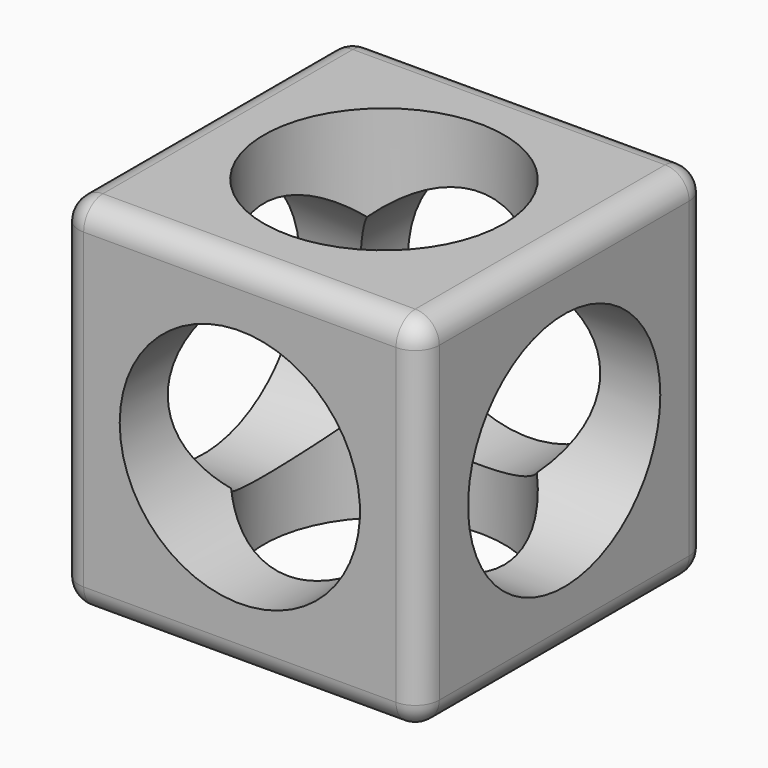
from build123d import *

# Parameters (mm, degrees)
F0_W     = 15
F0_H     = 15
F0_R     = 5
F1_DEPTH = 15
F3_DEPTH = 15.001
F5_DEPTH = 15.001
F6_R     = 1


with BuildPart() as f1:
    # F0 (on Top) → F1 (new body)
    with BuildSketch(Plane.XY):
        with Locations((7.5, 7.5)):
            Rectangle(F0_W, F0_H)
        with Locations((7.5, 7.5)):
            Circle(F0_R, mode=Mode.SUBTRACT)
    extrude(amount=F1_DEPTH)

    # F2 (on face) → F3 (cut, through all)
    with BuildSketch(Plane.XZ):
        with BuildLine():
            Line((2.5, 7.5), (12.5, 7.5))
            ThreePointArc((12.5, 7.5), (7.5, 12.5), (2.5, 7.5))
        make_face()
        with BuildLine():
            ThreePointArc((2.5, 7.5), (7.5, 2.5), (12.5, 7.5))
            Line((12.5, 7.5), (2.5, 7.5))
        make_face()
    extrude(amount=-F3_DEPTH, mode=Mode.SUBTRACT)

    # F4 (on face) → F5 (cut, through all)
    with BuildSketch(Plane(origin=(0, 0, 0), x_dir=(0, -1, 0), z_dir=(-1, 0, 0))):
        with BuildLine():
            Line((-12.5, 7.5), (-2.5, 7.5))
            ThreePointArc((-2.5, 7.5), (-7.5, 12.5), (-12.5, 7.5))
        make_face()
        with BuildLine():
            ThreePointArc((-12.5, 7.5), (-7.5, 2.5), (-2.5, 7.5))
            Line((-2.5, 7.5), (-12.5, 7.5))
        make_face()
    extrude(amount=-F5_DEPTH, mode=Mode.SUBTRACT)

    # F6
    f6_edges = [f1.edges().sort_by_distance(p)[0] for p in [
        (0, 7.5, 15),
        (7.5, 0, 15),
        (0, 0, 7.5),
        (15, 0, 7.5),
        (7.5, 0, 0),
        (0, 7.5, 0),
        (0, 15, 7.5),
        (7.5, 15, 15),
        (15, 7.5, 15),
        (15, 7.5, 0),
        (15, 15, 7.5),
        (7.5, 15, 0),
    ]]
    fillet(f6_edges, radius=F6_R)


solid = f1.part
